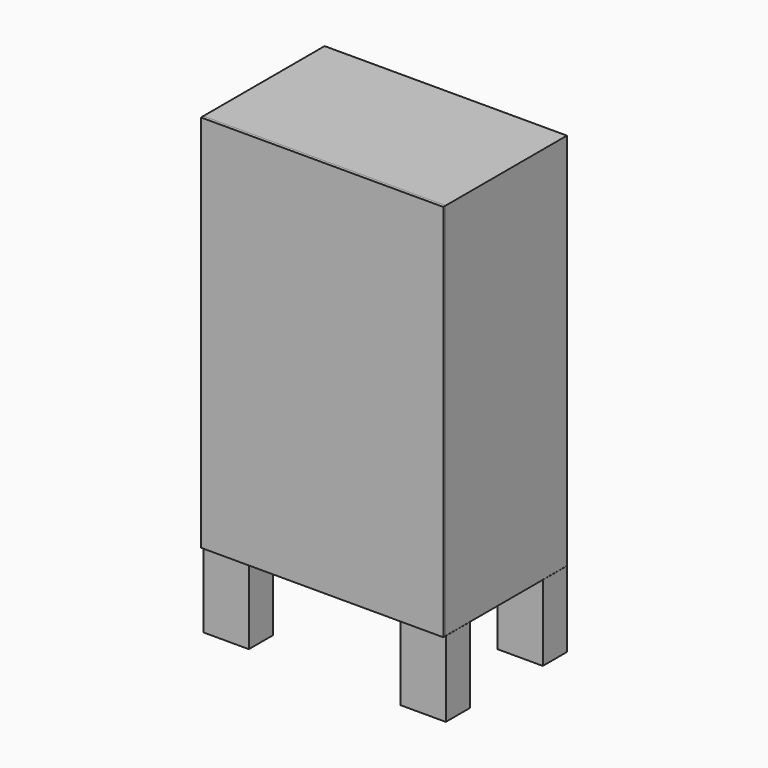
from build123d import *

# Parameters (mm, degrees)
F0_W      = 30
F0_H      = 50
F1_DEPTH  = 50
F0_H_2    = 50.0126
F2_W      = 159.9221400055
F2_H      = 100
F3_DEPTH  = 250
F4_W      = 149.9183373862
F4_H      = 50
F5_DEPTH  = 100.001
F6_W      = 149.9183400055
F6_H      = 50.0126
F7_DEPTH  = 100.001
F8_W      = 149.9183400055
F8_H      = 50.0126
F9_DEPTH  = 100.001
F10_W     = 149.9183400055
F10_H     = 50.0126
F11_DEPTH = 100.001
F12_W     = 60.0102
F12_H     = 50.0126
F13_DEPTH = 160.001
F14_W     = 60
F14_H     = 50
F15_DEPTH = 160.001
F16_W     = 159.9221400055
F16_H     = 250
F17_DEPTH = 2


with BuildPart() as f1:
    # F0 (on Front) → F1 (new body, symmetric)
    with BuildSketch(Plane.XZ):
        with Locations((-63.0435375008, -51.2394877252)):
            Rectangle(F0_W, F0_H)
    extrude(amount=F1_DEPTH, both=True)

    # F14 (on face) → F15 (cut, through all)
    with BuildSketch(Plane(origin=(-78.0435375008, 0, 0), x_dir=(0, -1, 0), z_dir=(-1, 0, 0))):
        with Locations((0, -51.2394877252)):
            Rectangle(F14_W, F14_H)
    extrude(amount=-F15_DEPTH, mode=Mode.SUBTRACT)


with BuildPart() as f1b:
    # F0 (on Front) → F1, piece 2 (new body, symmetric)
    with BuildSketch(Plane.XZ):
        with Locations((66.9564624992, -51.2079236825)):
            Rectangle(F0_W, F0_H_2)
    extrude(amount=F1_DEPTH, both=True)

    # F12 (on face) → F13 (cut, through all)
    with BuildSketch(Plane.YZ.offset(81.9564624992)):
        with Locations((0.0051, -51.2079236825)):
            Rectangle(F12_W, F12_H)
    extrude(amount=-F13_DEPTH, mode=Mode.SUBTRACT)


with BuildPart() as f3:
    # F2 (on face) → F3 (new body)
    with BuildSketch(Plane.XY.offset(-26.2394877252)):
        with Locations((1.917532502, 0)):
            Rectangle(F2_W, F2_H)
    extrude(amount=F3_DEPTH)

    # F4 (on face) → F5 (cut, through all)
    with BuildSketch(Plane.XZ.offset(50)):
        with Locations((1.9156311923, 193.7605122748)):
            Rectangle(F4_W, F4_H)
    extrude(amount=-F5_DEPTH, mode=Mode.SUBTRACT)

    # F6 (on face) → F7 (cut, through all)
    with BuildSketch(Plane.XZ.offset(50)):
        with Locations((1.915632502, 138.7542122748)):
            Rectangle(F6_W, F6_H)
    extrude(amount=-F7_DEPTH, mode=Mode.SUBTRACT)

    # F8 (on face) → F9 (cut, through all)
    with BuildSketch(Plane.XZ.offset(50)):
        with Locations((1.915632502, 83.7378122748)):
            Rectangle(F8_W, F8_H)
    extrude(amount=-F9_DEPTH, mode=Mode.SUBTRACT)

    # F10 (on face) → F11 (cut, through all)
    with BuildSketch(Plane.XZ.offset(50)):
        with Locations((1.915632502, 28.7214122748)):
            Rectangle(F10_W, F10_H)
    extrude(amount=-F11_DEPTH, mode=Mode.SUBTRACT)


with BuildPart() as f17:
    # F16 (on face) → F17 (new body)
    with BuildSketch(Plane.XZ.offset(50)):
        with Locations((1.917532502, 98.7605122748)):
            Rectangle(F16_W, F16_H)
    extrude(amount=F17_DEPTH)


solid = Compound([f1.part, f1b.part, f3.part, f17.part])
